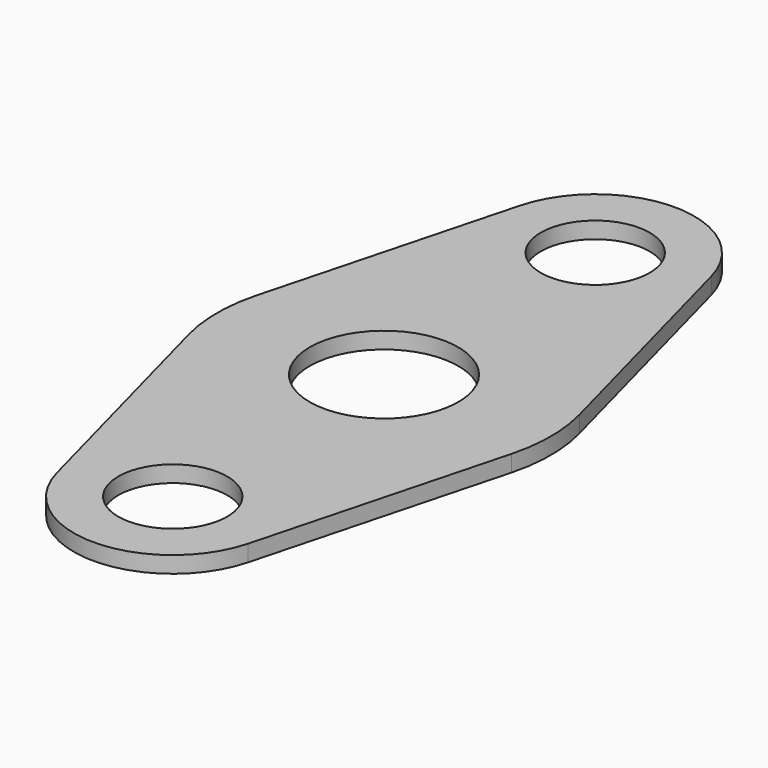
from build123d import *

# Parameters (mm, degrees)
F1_DEPTH = 1
F2_R     = 10
F4_D     = 9
F5_D     = 6.6


with BuildPart() as f1:
    # F0 (on Top) → F1 (new body)
    with BuildSketch(Plane.XY):
        with BuildLine():
            Line((10.468547, 0), (5.79805, 17.543572))
            ThreePointArc((5.79805, 17.543572), (0, 22), (-5.79805, 17.543572))
            Line((-5.79805, 17.543572), (-10.468547, 0))
            Line((-10.468547, 0), (-5.79805, -17.543572))
            ThreePointArc((-5.79805, -17.543572), (0, -22), (5.79805, -17.543572))
            Line((5.79805, -17.543572), (10.468547, 0))
        make_face()
    extrude(amount=F1_DEPTH)

    # F2
    f2_edges = [f1.edges().sort_by_distance(p)[0] for p in [
        (10.468547, 0, 0.5),
        (-10.468547, 0, 0.5),
    ]]
    fillet(f2_edges, radius=F2_R)

    # F4 (through all)
    with Locations(Plane.XY.offset(1)):
        with Locations((0, 0)):
            Hole(F4_D / 2)

    # F5 (through all)
    with Locations(Plane.XY.offset(1)):
        with Locations((0, 16), (0, -16)):
            Hole(F5_D / 2)


solid = f1.part
